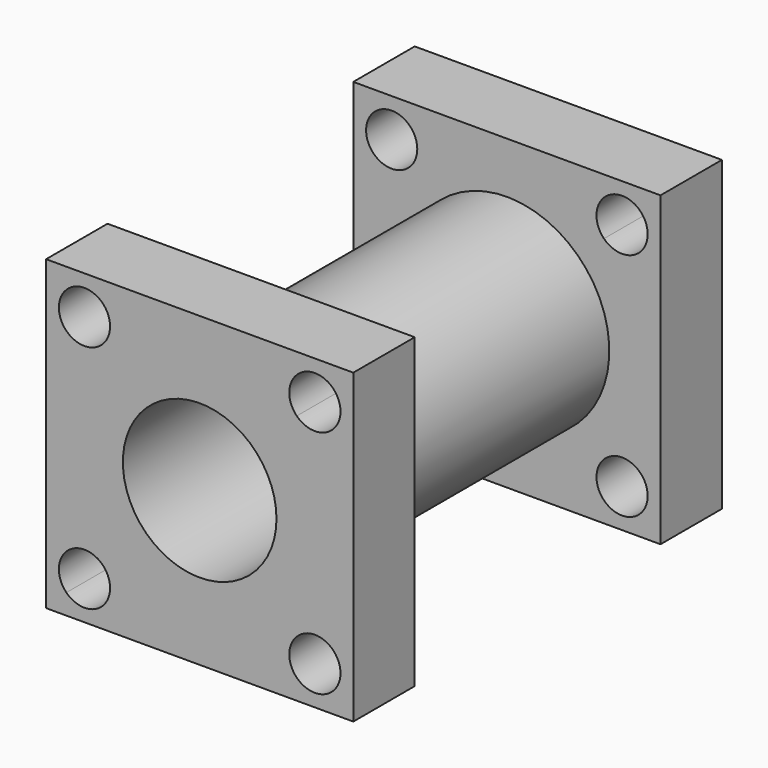
from build123d import *

# Parameters (mm, degrees)
F0_W      = 76.2
F0_H      = 76.2
F1_DEPTH  = 19.05
F2_R      = 25.4
F3_DEPTH  = 76.2
F4_W      = 76.2
F4_H      = 76.2
F5_DEPTH  = 19.05
F6_R      = 19.05
F7_DEPTH  = 122.174
F9_DEPTH  = 125.222
F11_DEPTH = 131.826
F13_DEPTH = 129.54
F15_DEPTH = 127


with BuildPart() as f1:
    # F0 (on Front) → F1 (new body)
    with BuildSketch(Plane.XZ):
        Rectangle(F0_W, F0_H)
    extrude(amount=F1_DEPTH)

    # F2 (on face) → F3 (join)
    with BuildSketch(Plane(origin=(0, 0, 0), x_dir=(-1, 0, 0), z_dir=(0, 1, 0))):
        Circle(F2_R)
    extrude(amount=F3_DEPTH)

    # F4 (on face) → F5 (join)
    with BuildSketch(Plane(origin=(0, 76.2, 0), x_dir=(-1, 0, 0), z_dir=(0, 1, 0))):
        Rectangle(F4_W, F4_H)
    extrude(amount=F5_DEPTH)

    # F6 (on face) → F7 (cut)
    with BuildSketch(Plane.XZ.offset(19.05)):
        Circle(F6_R)
    extrude(amount=-F7_DEPTH, mode=Mode.SUBTRACT)

    # F8 (on face) → F9 (cut)
    with BuildSketch(Plane.XZ.offset(19.05)):
        with BuildLine():
            ThreePointArc((-22.225, 28.575), (-26.14496, 34.441635), (-33.065128, 33.065128))
            Line((-33.065128, 33.065128), (-24.084872, 24.084872))
            ThreePointArc((-24.084872, 24.084872), (-22.708365, 26.14496), (-22.225, 28.575))
        make_face()
        with BuildLine():
            Line((-24.084872, 24.084872), (-33.065128, 33.065128))
            ThreePointArc((-33.065128, 33.065128), (-33.065128, 24.084872), (-24.084872, 24.084872))
        make_face()
    extrude(amount=-F9_DEPTH, mode=Mode.SUBTRACT)

    # F10 (on face) → F11 (cut)
    with BuildSketch(Plane.XZ.offset(19.05)):
        with BuildLine():
            ThreePointArc((34.925, 28.575), (34.441635, 31.00504), (33.065128, 33.065128))
            Line((33.065128, 33.065128), (24.084872, 24.084872))
            ThreePointArc((24.084872, 24.084872), (31.00504, 22.708365), (34.925, 28.575))
        make_face()
        with BuildLine():
            Line((24.084872, 24.084872), (33.065128, 33.065128))
            ThreePointArc((33.065128, 33.065128), (24.084872, 33.065128), (24.084872, 24.084872))
        make_face()
    extrude(amount=-F11_DEPTH, mode=Mode.SUBTRACT)

    # F12 (on face) → F13 (cut)
    with BuildSketch(Plane.XZ.offset(19.05)):
        with BuildLine():
            ThreePointArc((-24.084872, -24.084872), (-33.065128, -24.084872), (-33.065128, -33.065128))
            Line((-33.065128, -33.065128), (-24.084872, -24.084872))
        make_face()
        with BuildLine():
            Line((-24.084872, -24.084872), (-33.065128, -33.065128))
            ThreePointArc((-33.065128, -33.065128), (-26.14496, -34.441635), (-22.225, -28.575))
            ThreePointArc((-22.225, -28.575), (-22.708365, -26.14496), (-24.084872, -24.084872))
        make_face()
    extrude(amount=-F13_DEPTH, mode=Mode.SUBTRACT)

    # F14 (on face) → F15 (cut)
    with BuildSketch(Plane.XZ.offset(19.05)):
        with BuildLine():
            ThreePointArc((34.925, -28.575), (31.00504, -22.708365), (24.084872, -24.084872))
            Line((24.084872, -24.084872), (33.065128, -33.065128))
            ThreePointArc((33.065128, -33.065128), (34.441635, -31.00504), (34.925, -28.575))
        make_face()
        with BuildLine():
            Line((33.065128, -33.065128), (24.084872, -24.084872))
            ThreePointArc((24.084872, -24.084872), (24.084872, -33.065128), (33.065128, -33.065128))
        make_face()
    extrude(amount=-F15_DEPTH, mode=Mode.SUBTRACT)


solid = f1.part
